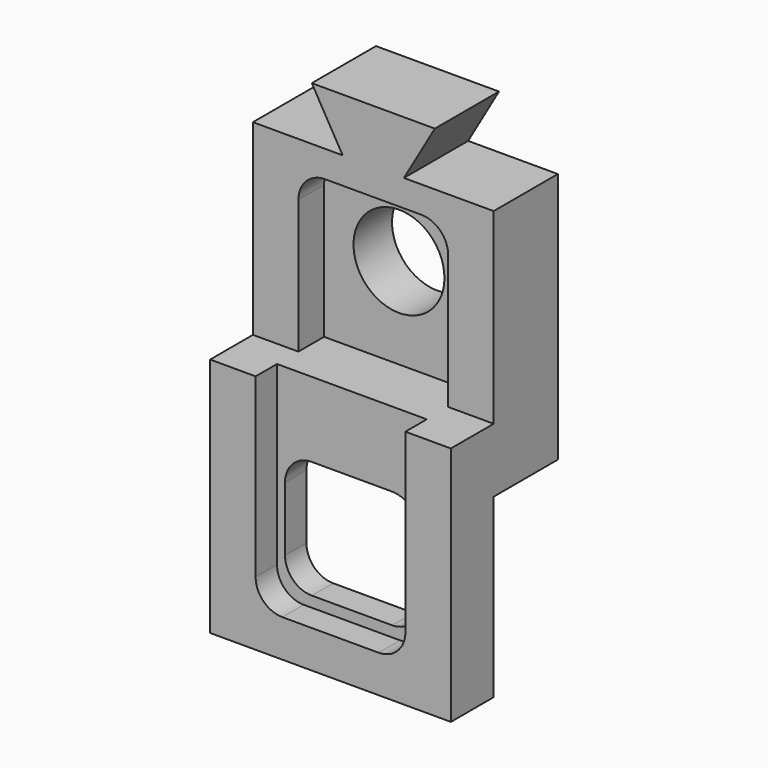
from build123d import *

# Parameters (mm, degrees)
F1_DEPTH  = 25
F2_R      = 8.5
F3_DEPTH  = 25
F5_DEPTH  = 6
F6_W      = 28
F6_H      = 15
F7_DEPTH  = 6
F8_W      = 45
F8_H      = 30
F9_DEPTH  = 10
F11_DEPTH = 5
F13_W     = 45
F13_H     = 25
F14_DEPTH = 3
F15_DEPTH = 25
F16_W     = 45
F16_H     = 47
F17_DEPTH = 10
F19_DEPTH = 10


with BuildPart() as f1:
    # F0 (on Front) → F1 (new body)
    with BuildSketch(Plane.XZ):
        Polygon((13.583599414, 1.7193433519), (-9.416400586, 1.7193433519), (-3.6428978941, -8.2806566481), (-20.416400586, -8.2806566481), (-20.416400586, -58.2806566481), (24.583599414, -58.2806566481), (24.583599414, -8.2806566481), (7.8100967221, -8.2806566481), align=None)
    extrude(amount=F1_DEPTH)

    # F2 (on face) → F3 (cut)
    with BuildSketch(Plane.XZ.offset(25)):
        with Locations((2.083599414, -26.2928102165)):
            Circle(F2_R)
    extrude(amount=-F3_DEPTH, mode=Mode.SUBTRACT)

    # F4 (on face) → F5 (cut)
    with BuildSketch(Plane.XZ.offset(25)):
        with BuildLine():
            Line((11.083599414, -13.2806566481), (-6.916400586, -13.2806566481))
            ThreePointArc((-6.916400586, -13.2806566481), (-10.4519344919, -14.7451227421), (-11.916400586, -18.2806566481))
            Line((-11.916400586, -18.2806566481), (-11.916400586, -58.2806566481))
            Line((-11.916400586, -58.2806566481), (16.083599414, -58.2806566481))
            Line((16.083599414, -58.2806566481), (16.083599414, -18.2806566481))
            ThreePointArc((16.083599414, -18.2806566481), (14.6191333199, -14.7451227421), (11.083599414, -13.2806566481))
        make_face()
    extrude(amount=-F5_DEPTH, mode=Mode.SUBTRACT)

    # F6 (on face) → F7 (join)
    with BuildSketch(Plane.XZ.offset(19)):
        with Locations((2.083599414, -50.7806566481)):
            Rectangle(F6_W, F6_H)
    extrude(amount=F7_DEPTH)

    # F8 (on face) → F9 (join)
    with BuildSketch(Plane.XZ.offset(25)):
        Polygon((-11.916400586, -43.2806566481), (-20.416400586, -43.2806566481), (-20.416400586, -58.2806566481), (24.583599414, -58.2806566481), (24.583599414, -43.2806566481), (16.083599414, -43.2806566481), align=None)
        with Locations((2.083599414, -73.2806566481)):
            Rectangle(F8_W, F8_H)
    extrude(amount=F9_DEPTH)

    # F10 (on face) → F11 (cut)
    with BuildSketch(Plane.XZ.offset(35)):
        with BuildLine():
            Line((16.083599414, -43.2806566481), (-11.916400586, -43.2806566481))
            Line((-11.916400586, -43.2806566481), (-11.916400586, -76.2806566481))
            ThreePointArc((-11.916400586, -76.2806566481), (-10.4519344919, -79.816190554), (-6.916400586, -81.2806566481))
            Line((-6.916400586, -81.2806566481), (11.083599414, -81.2806566481))
            ThreePointArc((11.083599414, -81.2806566481), (14.6191333199, -79.816190554), (16.083599414, -76.2806566481))
            Line((16.083599414, -76.2806566481), (16.083599414, -43.2806566481))
        make_face()
    extrude(amount=-F11_DEPTH, mode=Mode.SUBTRACT)

    # F13 (on face) → F14 (cut)
    with BuildSketch(Plane(origin=(0, 0, -58.2806566481), x_dir=(1, 0, 0), z_dir=(0, 0, -1))):
        with Locations((2.083599414, 12.5)):
            Rectangle(F13_W, F13_H)
    extrude(amount=-F14_DEPTH, mode=Mode.SUBTRACT)

    # F12 (on face) → F15 (cut)
    with BuildSketch(Plane.XZ.offset(30)):
        with BuildLine():
            ThreePointArc((14.583599414, -62.2806566481), (13.1191333199, -58.7451227421), (9.583599414, -57.2806566481))
            Line((9.583599414, -57.2806566481), (-5.416400586, -57.2806566481))
            ThreePointArc((-5.416400586, -57.2806566481), (-8.9519344919, -58.7451227421), (-10.416400586, -62.2806566481))
            Line((-10.416400586, -62.2806566481), (-10.416400586, -74.2806566481))
            ThreePointArc((-10.416400586, -74.2806566481), (-8.9519344919, -77.816190554), (-5.416400586, -79.2806566481))
            Line((-5.416400586, -79.2806566481), (9.583599414, -79.2806566481))
            ThreePointArc((9.583599414, -79.2806566481), (13.1191333199, -77.816190554), (14.583599414, -74.2806566481))
            Line((14.583599414, -74.2806566481), (14.583599414, -62.2806566481))
        make_face()
    extrude(amount=-F15_DEPTH, mode=Mode.SUBTRACT)

    # F16 (on face) → F17 (cut)
    with BuildSketch(Plane(origin=(0, 0, 0), x_dir=(-1, 0, 0), z_dir=(0, 1, 0))):
        with Locations((-2.083599414, -31.7806566481)):
            Rectangle(F16_W, F16_H)
    extrude(amount=-F17_DEPTH, mode=Mode.SUBTRACT)

    # F18 (on face) → F19 (cut)
    with BuildSketch(Plane(origin=(0, 0, 0), x_dir=(-1, 0, 0), z_dir=(0, 1, 0))):
        Polygon((9.416400586, 1.7193433519), (-13.583599414, 1.7193433519), (-7.8100967221, -8.2806566481), (3.6428978941, -8.2806566481), align=None)
    extrude(amount=-F19_DEPTH, mode=Mode.SUBTRACT)


solid = f1.part
